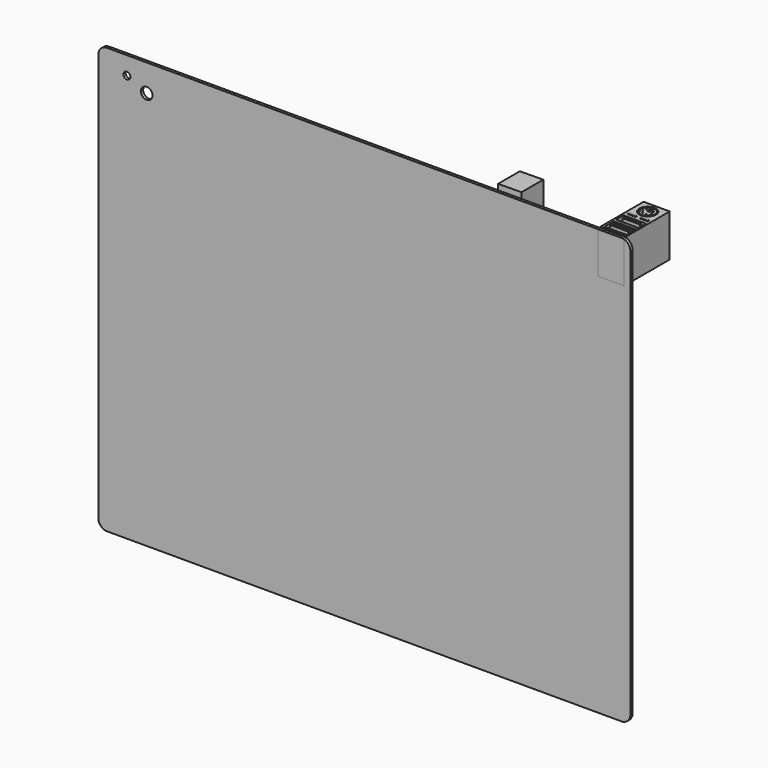
from build123d import *

# Parameters (mm, degrees)
F1_DEPTH  = 31.1
F2_R      = 4.7721035724
F2_R_2    = 0.335
F3_DEPTH  = 8.5
F4_DEPTH  = 0.3
F2_W      = 13.0011439323
F2_H      = 5.3685186431
F2_W_2    = 10.013461113
F2_H_2    = 1.2604352087
F2_W_3    = 12.8749459982
F2_H_3    = 5.3755240515
F2_W_4    = 10.4503333569
F2_H_4    = 1.3344832696
F5_DEPTH  = 10
F6_DEPTH  = 0.3
F0_R      = 3.3028242823
F0_R_2    = 1.9899956973
F7_DEPTH  = 1.6
F8_DEPTH  = 1.6
F9_W      = 13.4265273809
F9_H      = 14.4242305644
F10_DEPTH = 15.6


with BuildPart() as f1:
    # F0 (on Front) → F1 (new body)
    with BuildSketch(Plane.XZ):
        with BuildLine():
            Line((146.5973348236, 107.4337024577), (133.0546587706, 107.4337024577))
            Line((133.0546587706, 107.4337024577), (133.0546587706, 83.7045535445))
            Line((133.0546587706, 83.7045535445), (148.0253636837, 83.7045535445))
            Line((148.0253636837, 83.7045535445), (148.0253636837, 107.2254384245))
            ThreePointArc((148.0253636837, 107.2254384245), (147.3189026189, 107.3813625023), (146.5973348236, 107.4337024577))
        make_face()
        with BuildLine():
            Line((133.0546587706, 108.0053970218), (133.0546587706, 107.4337024577))
            Line((133.0546587706, 107.4337024577), (146.5973348236, 107.4337024577))
            ThreePointArc((146.5973348236, 107.4337024577), (147.3189026189, 107.3813625023), (148.0253636837, 107.2254384245))
            Line((148.0253636837, 107.2254384245), (148.0253636837, 108.0053970218))
            Line((148.0253636837, 108.0053970218), (133.0546587706, 108.0053970218))
        make_face()
    extrude(amount=-F1_DEPTH)

    # F2 (on face) → F3 (cut)
    with BuildSketch(Plane.XY.offset(108.0053970218)):
        with Locations((140.4510243781, 24.8168191715)):
            Circle(F2_R)
        with BuildLine():
            ThreePointArc((141.0332918167, 28.8838842541), (143.5552408232, 27.5082674839), (144.559558637, 24.8168191715))
            ThreePointArc((144.559558637, 24.8168191715), (144.4524142101, 23.8846533229), (144.136569262, 23.0011064559))
            ThreePointArc((144.136569262, 23.0011064559), (143.7031314856, 22.3060716497), (143.1404302446, 21.7108330411))
            ThreePointArc((143.1404302446, 21.7108330411), (140.4183904808, 20.7084145193), (137.7126180122, 21.7539472623))
            ThreePointArc((137.7126180122, 21.7539472623), (137.1659240775, 22.3493974864), (136.7463979999, 23.0403628239))
            ThreePointArc((136.7463979999, 23.0403628239), (136.7586772419, 26.6186588932), (139.5717839459, 28.8301706411))
            ThreePointArc((139.5717839459, 28.8301706411), (140.3001286267, 28.9225814915), (141.0332918167, 28.8838842541))
        make_face(mode=Mode.SUBTRACT)
        Polygon((139.689207077, 24.9626487494), (141.1854624748, 24.9626487494), (141.1884874105, 27.1797347814), (139.689207077, 27.1797347814), align=None)
        with BuildLine():
            Line((141.0332918167, 28.1090545301), (141.0332918167, 28.8838842541))
            ThreePointArc((141.0332918167, 28.8838842541), (140.3001286267, 28.9225814915), (139.5717839459, 28.8301706411))
            Line((139.5717839459, 28.8301706411), (139.5717839459, 28.1090545301))
            Line((139.5717839459, 28.1090545301), (141.0332918167, 28.1090545301))
        make_face()
        with BuildLine():
            ThreePointArc((143.1404302446, 21.7108330411), (143.7031314856, 22.3060716497), (144.136569262, 23.0011064559))
            Line((144.136569262, 23.0011064559), (143.1404302446, 23.0011064559))
            Line((143.1404302446, 23.0011064559), (143.1404302446, 21.7108330411))
        make_face()
        with BuildLine():
            Line((137.7126180122, 23.0403628239), (136.7463979999, 23.0403628239))
            ThreePointArc((136.7463979999, 23.0403628239), (137.1659240775, 22.3493974864), (137.7126180122, 21.7539472623))
            Line((137.7126180122, 21.7539472623), (137.7126180122, 23.0403628239))
        make_face()
        with Locations((141.4729776408, 22.4469911506)):
            Circle(F2_R_2)
        with Locations((139.3713495952, 22.4953122328)):
            Circle(F2_R_2)
        with Locations((137.8236935557, 24.5415867312)):
            Circle(F2_R_2)
        with Locations((138.271967138, 26.541619488)):
            Circle(F2_R_2)
        with Locations((142.3867255578, 26.5537630882)):
            Circle(F2_R_2)
        with Locations((142.9156926089, 24.5944873077)):
            Circle(F2_R_2)
    extrude(amount=-F3_DEPTH, mode=Mode.SUBTRACT)

    # F2 (on face) → F4 (join)
    with BuildSketch(Plane.XY.offset(108.0053970218)):
        with BuildLine():
            Line((139.039972435, 18.3976299851), (134.8969787359, 18.3976299851))
            Line((134.8969787359, 18.3976299851), (134.8969787359, 17.2696299851))
            Line((134.8969787359, 17.2696299851), (139.039972435, 17.2696299851))
            ThreePointArc((139.039972435, 17.2696299851), (139.4387806596, 17.4348217605), (139.603972435, 17.8336299851))
            ThreePointArc((139.603972435, 17.8336299851), (139.4387806596, 18.2324382097), (139.039972435, 18.3976299851))
        make_face()
        with BuildLine():
            Line((146.3693231344, 17.3453036696), (146.3693231344, 18.4733036696))
            Line((146.3693231344, 18.4733036696), (142.196065177, 18.4733036696))
            ThreePointArc((142.196065177, 18.4733036696), (141.7972569524, 18.3081118942), (141.632065177, 17.9093036696))
            ThreePointArc((141.632065177, 17.9093036696), (141.7972569524, 17.510495445), (142.196065177, 17.3453036696))
            Line((142.196065177, 17.3453036696), (146.3693231344, 17.3453036696))
        make_face()
    extrude(amount=F4_DEPTH)

    # F2 (on face) → F5 (cut)
    with BuildSketch(Plane.XY.offset(108.0053970218)):
        with Locations((140.6905353069, 12.5670242123)):
            Rectangle(F2_W, F2_H)
        with Locations((140.5738294125, 13.4306559339)):
            Rectangle(F2_W_2, F2_H_2, mode=Mode.SUBTRACT)
        with Locations((140.8137604594, 3.9931773208)):
            Rectangle(F2_W_3, F2_H_3)
        with Locations((140.6915932894, 4.8107833136)):
            Rectangle(F2_W_4, F2_H_4, mode=Mode.SUBTRACT)
    extrude(amount=-F5_DEPTH, mode=Mode.SUBTRACT)

    # F2 (on face) → F6 (join)
    with BuildSketch(Plane.XY.offset(108.0053970218)):
        with BuildLine():
            Line((147.0326870785, 8.654551839), (134.5309376612, 8.654551839))
            ThreePointArc((134.5309376612, 8.654551839), (134.1321294366, 8.4893600636), (133.9669376612, 8.090551839))
            ThreePointArc((133.9669376612, 8.090551839), (134.1321294366, 7.6917436144), (134.5309376612, 7.526551839))
            Line((134.5309376612, 7.526551839), (147.0326870785, 7.526551839))
            ThreePointArc((147.0326870785, 7.526551839), (147.4314953031, 7.6917436144), (147.5966870785, 8.090551839))
            ThreePointArc((147.5966870785, 8.090551839), (147.4314953031, 8.4893600636), (147.0326870785, 8.654551839))
        make_face()
    extrude(amount=F6_DEPTH)


with BuildPart() as f7:
    # F0 (on Front) → F7 (new body)
    with BuildSketch(Plane.XZ):
        with BuildLine():
            Line((133.0546587706, 107.4337024577), (-148.4026651764, 107.4337024577))
            ThreePointArc((-148.4026651764, 107.4337024577), (-151.9381990823, 105.9692363637), (-153.4026651764, 102.4337024577))
            Line((-153.4026651764, 102.4337024577), (-153.4026651764, -131.5662975423))
            ThreePointArc((-153.4026651764, -131.5662975423), (-151.9381990823, -135.1018314482), (-148.4026651764, -136.5662975423))
            Line((-148.4026651764, -136.5662975423), (146.5973348236, -136.5662975423))
            ThreePointArc((146.5973348236, -136.5662975423), (150.1328687296, -135.1018314482), (151.5973348236, -131.5662975423))
            Line((151.5973348236, -131.5662975423), (151.5973348236, 102.4337024577))
            ThreePointArc((151.5973348236, 102.4337024577), (150.6060842733, 105.4220009451), (148.0253636837, 107.2254384245))
            Line((148.0253636837, 107.2254384245), (148.0253636837, 83.7045535445))
            Line((148.0253636837, 83.7045535445), (133.0546587706, 83.7045535445))
            Line((133.0546587706, 83.7045535445), (133.0546587706, 107.4337024577))
        make_face()
        with Locations((-125.6494671106, 91.8843820691)):
            Circle(F0_R, mode=Mode.SUBTRACT)
        with Locations((-137.001350522, 97.1322059631)):
            Circle(F0_R_2, mode=Mode.SUBTRACT)
    extrude(amount=F7_DEPTH)

    # F9 (on face) → F10 (join)
    with BuildSketch(Plane.XZ):
        Polygon((87.9408195615, 107.4337024577), (87.9408195615, 110.7915863395), (74.5142921805, 110.672429204), (74.5142921805, 107.4337024577), align=None)
        with Locations((81.227555871, 100.2215871755)):
            Rectangle(F9_W, F9_H)
    extrude(amount=-F10_DEPTH)


with BuildPart() as f8:
    # F0 (on Front) → F8 (new body)
    with BuildSketch(Plane.XZ):
        with BuildLine():
            Line((146.5973348236, 107.4337024577), (133.0546587706, 107.4337024577))
            Line((133.0546587706, 107.4337024577), (133.0546587706, 83.7045535445))
            Line((133.0546587706, 83.7045535445), (148.0253636837, 83.7045535445))
            Line((148.0253636837, 83.7045535445), (148.0253636837, 107.2254384245))
            ThreePointArc((148.0253636837, 107.2254384245), (147.3189026189, 107.3813625023), (146.5973348236, 107.4337024577))
        make_face()
    extrude(amount=F8_DEPTH)


solid = Compound([f1.part, f7.part, f8.part])
